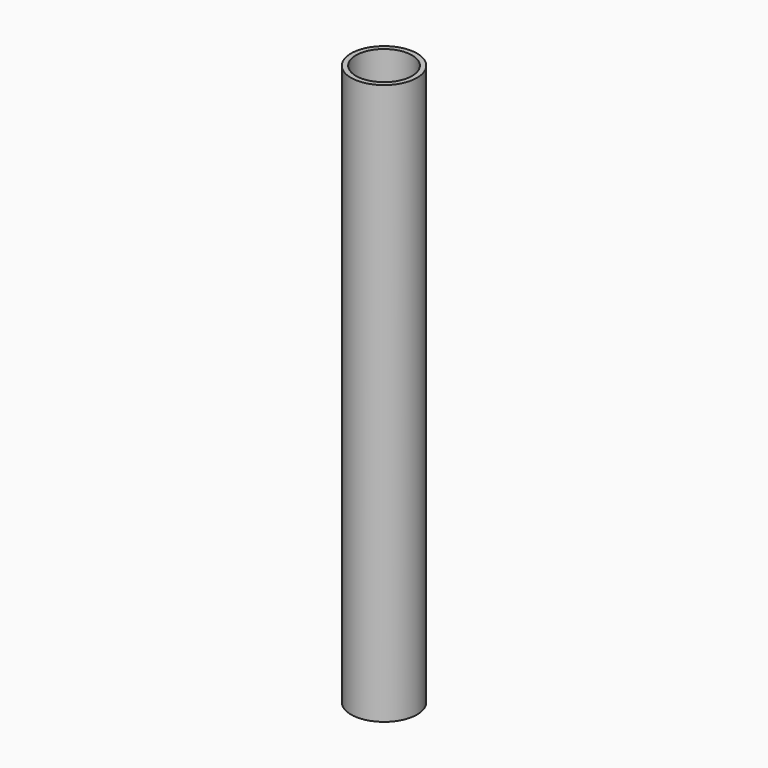
from build123d import *

# Parameters (mm, degrees)
F0_R     = 5.3
F2_DEPTH = 90
F3_D     = 9


with BuildPart() as f2:
    # F0 (on Top) → F2 (new body)
    with BuildSketch(Plane.XY):
        Circle(F0_R)
    extrude(amount=-F2_DEPTH)

    # F3 (through all)
    with Locations(Plane.XY):
        with Locations((0, 0)):
            Hole(F3_D / 2)


solid = f2.part
